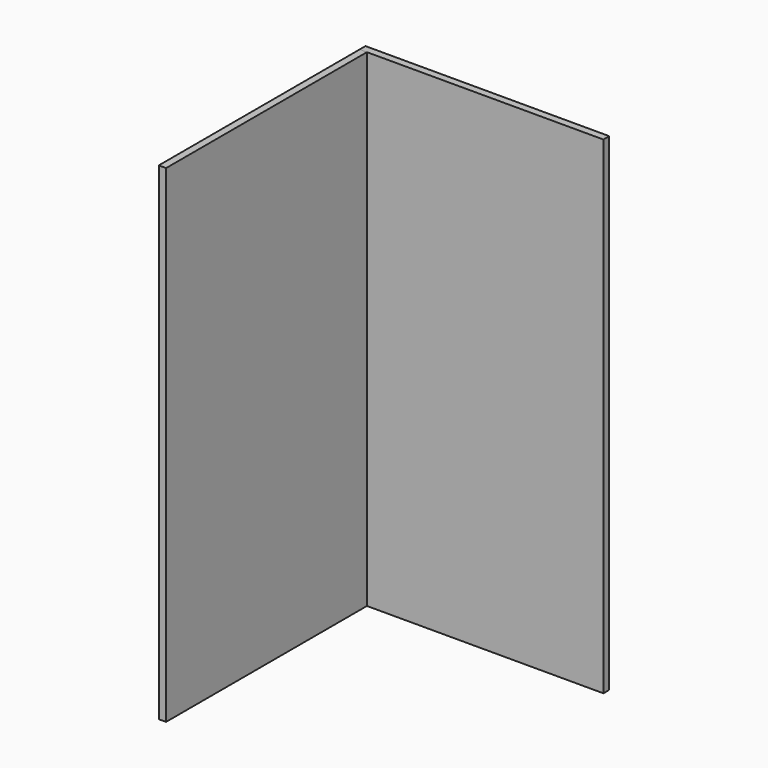
from build123d import *

# Parameters (mm, degrees)
F0_W     = 1000
F0_H     = 30
F0_W_2   = 30
F0_H_2   = 1030
F1_DEPTH = 2000


with BuildPart() as f1:
    # F0 (on Top) → F1 (new body)
    with BuildSketch(Plane.XY):
        with Locations((500, 15)):
            Rectangle(F0_W, F0_H)
        with Locations((15, -515.001)):
            Rectangle(F0_W_2, F0_H_2)
    extrude(amount=F1_DEPTH)


solid = f1.part
